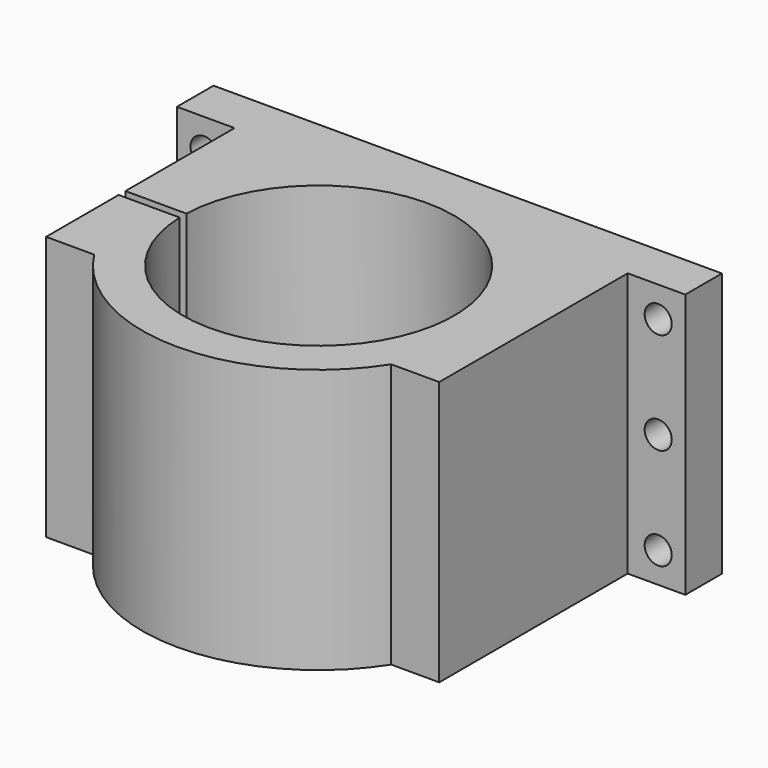
from build123d import *

# Parameters (mm, degrees)
F1_DEPTH = 78
F2_R     = 4
F3_DEPTH = 13.501


with BuildPart() as f1:
    # F0 (on Top) → F1 (new body)
    with BuildSketch(Plane.XY):
        with BuildLine():
            ThreePointArc((-39.980464, 1.25), (40, 0), (-39.980464, -1.25))
            Line((-39.980464, -1.25), (-58, -1.25))
            Line((-58, -1.25), (-58, -28))
            Line((-58, -28), (-43.817805, -28))
            ThreePointArc((-43.817805, -28), (0, -52), (43.817805, -28))
            Line((43.817805, -28), (58, -28))
            Line((58, -28), (58, 41.5))
            Line((58, 41.5), (75, 41.5))
            Line((75, 41.5), (75, 55))
            Line((75, 55), (-75, 55))
            Line((-75, 55), (-75, 41.5))
            Line((-75, 41.5), (-58, 41.5))
            Line((-58, 41.5), (-58, 1.25))
            Line((-58, 1.25), (-39.980464, 1.25))
        make_face()
    extrude(amount=F1_DEPTH)

    # F2 (on face) → F3 (cut, through all)
    with BuildSketch(Plane.XZ.offset(-41.5)):
        with Locations((-67, 69)):
            Circle(F2_R)
        with Locations((-67, 39)):
            Circle(F2_R)
        with Locations((-67, 9)):
            Circle(F2_R)
        with Locations((67, 9)):
            Circle(F2_R)
        with Locations((67, 39)):
            Circle(F2_R)
        with Locations((67, 69)):
            Circle(F2_R)
    extrude(amount=-F3_DEPTH, mode=Mode.SUBTRACT)


solid = f1.part
